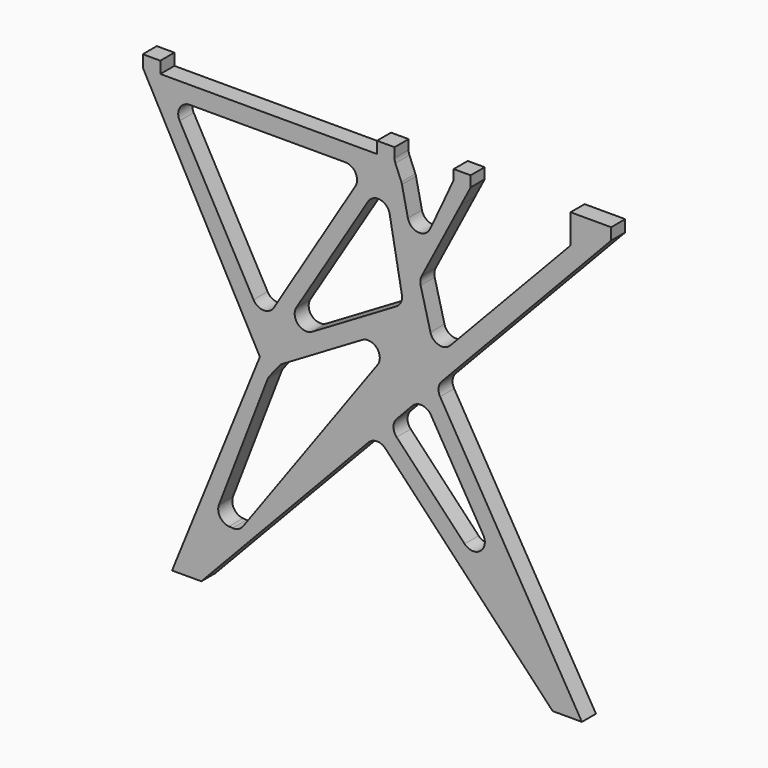
from build123d import *

# Parameters (mm, degrees)
F0_W     = 30
F0_H     = 20
F0_W_2   = 69.394279
F1_DEPTH = 30
F2_R     = 20


with BuildPart() as f1:
    # F0 (on Front) → F1 (new body)
    with BuildSketch(Plane.XZ):
        Polygon((159.634272, 0), (9.634272, -370), (59.634272, -370), (359.634272, -52.857143), (380.282107, -31.029432), (359.634272, -9.20172), (359.634272, 0), (419.442074, 58.0528), (425.315722, 52.496647), (438.374084, 30.382087), (459.824098, 53.057817), (759.634272, 370), (690.239993, 370), (690.239993, 340), (459.984443, 96.58699), (432.284971, 204.239834), (502.989308, 340), (475.40856, 340), (424.809358, 233.293495), (401.886582, 340), (389.634272, 370), (359.634272, 370), (-10.365728, 370), (-40.365728, 370), align=None)
        Polygon((173.899783, -26.391195), (194.902527, 0), (416.868696, 131.068154), (124.228867, -273.426068), (80.174812, -270), align=None, mode=Mode.SUBTRACT)
        Polygon((165.477519, 52.279216), (6.237836, 340), (341.3015, 340), align=None, mode=Mode.SUBTRACT)
        Polygon((179.74303, 25.888021), (371.932986, 338.332056), (404.63926, 158.686339), align=None, mode=Mode.SUBTRACT)
        Polygon((490.629017, 373.237222), (474.996572, 340), (475.40856, 340), (502.989308, 340), (519.577146, 371.850489), align=None)
        Polygon((490.629017, 390), (490.629017, 373.237222), (519.577146, 371.850489), (519.577146, 390), align=None)
        with Locations((374.634272, 380)):
            Rectangle(F0_W, F0_H)
        with Locations((724.937132, 380)):
            Rectangle(F0_W_2, F0_H)
        with Locations((-25.365728, 380)):
            Rectangle(F0_W, F0_H)
        Polygon((380.282107, -31.029432), (359.634272, -52.857143), (659.634272, -370), (709.634272, -370), (459.824098, 53.057817), (438.374084, 30.382087), (617.768873, -273.426068), (546.664514, -206.919405), align=None)
        Polygon((359.634272, -9.20172), (380.282107, -31.029432), (438.374084, 30.382087), (425.315722, 52.496647), (419.442074, 58.0528), (359.634272, 0), align=None)
    extrude(amount=F1_DEPTH)

    # F2
    f2_edges = [f1.edges().sort_by_distance(p)[0] for p in [
        (173.899783, -15, -26.391195),
        (194.902527, -15, 0),
        (416.868696, -15, 131.068154),
        (124.228867, -15, -273.426068),
        (80.174812, -15, -270),
        (179.74303, -15, 25.888021),
        (432.284971, -15, 204.239834),
        (459.984443, -15, 96.58699),
        (424.809358, -15, 233.293495),
        (371.932986, -15, 338.332056),
        (165.477519, -15, 52.279216),
        (6.237836, -15, 340),
        (341.3015, -15, 340),
        (404.63926, -15, 158.686339),
        (617.768873, -15, -273.426068),
        (438.374084, -15, 30.382087),
        (380.282107, -15, -31.029432),
        (359.634272, -15, -52.857143),
        (459.824098, -15, 53.057817),
        (401.886582, -15, 340),
        (389.634272, -15, 370),
    ]]
    fillet(f2_edges, radius=F2_R)


solid = f1.part
